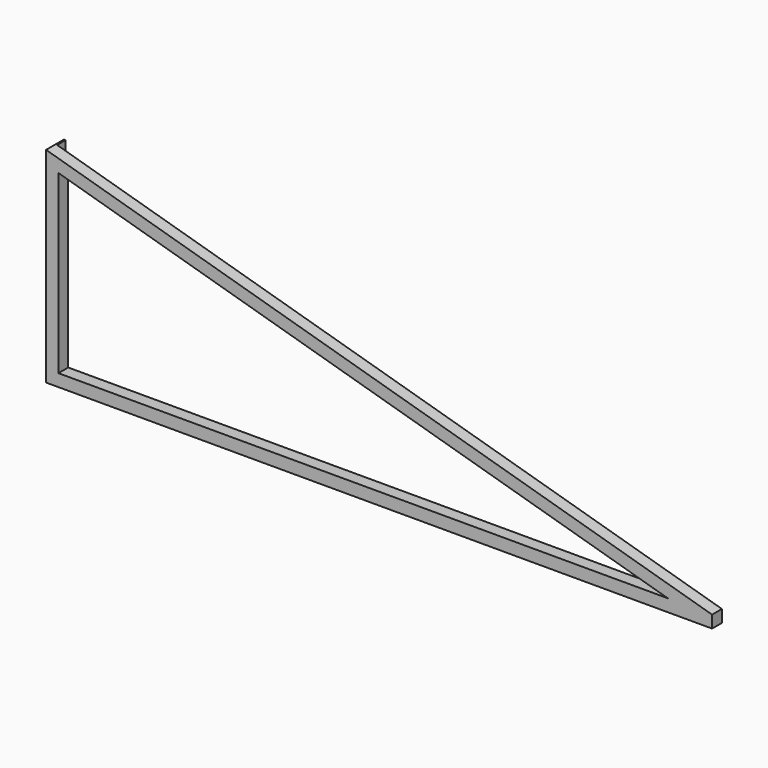
from build123d import *

# Parameters (mm, degrees)
F1_DEPTH = 60
F2_W     = 6
F2_H     = 100
F3_DEPTH = 50
F5_DEPTH = 50
F6_R     = 6.414339
F7_DEPTH = 25
F8_R     = 6.5
F9_DEPTH = 25


with BuildPart() as f1:
    # F0 (on Front) → F1 (new body)
    with BuildSketch(Plane.XZ):
        Polygon((0, 1000), (0, 0), (3250, 0), (3250, 60), align=None)
        Polygon((3034.050519, 60), (60, 60), (60, 920.186919), align=None, mode=Mode.SUBTRACT)
    extrude(amount=F1_DEPTH)

    # F2 (on face) → F3 (join)
    with BuildSketch(Plane(origin=(0, 0, 0), x_dir=(-1, 0, 0), z_dir=(0, 1, 0))):
        with Locations((-3, 50)):
            Rectangle(F2_W, F2_H)
    extrude(amount=F3_DEPTH)

    # F4 (on face) → F5 (join)
    with BuildSketch(Plane(origin=(0, 0, 0), x_dir=(-1, 0, 0), z_dir=(0, 1, 0))):
        Polygon((0, 900), (0, 1000), (-6, 998.264615), (-6, 900), align=None)
    extrude(amount=F5_DEPTH)

    # F6 (on face) → F7 (cut)
    with BuildSketch(Plane.YZ.offset(6)):
        with Locations((25, 949.132308)):
            Circle(F6_R)
    extrude(amount=-F7_DEPTH, mode=Mode.SUBTRACT)

    # F8 (on face) → F9 (cut)
    with BuildSketch(Plane.YZ.offset(6)):
        with Locations((25, 50)):
            Circle(F8_R)
    extrude(amount=-F9_DEPTH, mode=Mode.SUBTRACT)


solid = f1.part
